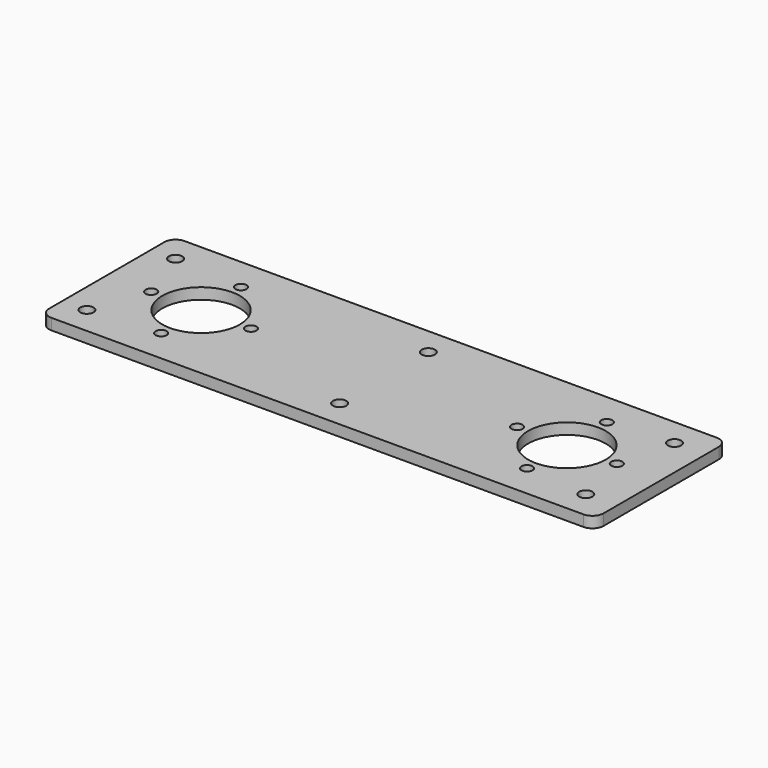
from build123d import *

# Parameters (mm, degrees)
F0_R     = 6
F0_R_2   = 35
F1_DEPTH = 10
F2_R     = 5
F3_DEPTH = 25


with BuildPart() as f1:
    # F0 (on Top) → F1 (new body)
    with BuildSketch(Plane.XY):
        with BuildLine():
            ThreePointArc((0, 10), (2.928932, 2.928932), (10, 0))
            Line((10, 0), (65, 0))
            Line((65, 0), (105, 0))
            Line((105, 0), (230, 0))
            Line((230, 0), (270, 0))
            Line((270, 0), (395, 0))
            Line((395, 0), (435, 0))
            Line((435, 0), (490, 0))
            ThreePointArc((490, 0), (497.071068, 2.928932), (500, 10))
            Line((500, 10), (500, 140))
            ThreePointArc((500, 140), (497.071068, 147.071068), (490, 150))
            Line((490, 150), (435, 150))
            Line((435, 150), (395, 150))
            Line((395, 150), (270, 150))
            Line((270, 150), (230, 150))
            Line((230, 150), (105, 150))
            Line((105, 150), (65, 150))
            Line((65, 150), (10, 150))
            ThreePointArc((10, 150), (2.928932, 147.071068), (0, 140))
            Line((0, 140), (0, 10))
        make_face()
        with Locations((22, 25)):
            Circle(F0_R, mode=Mode.SUBTRACT)
        with Locations((250, 25)):
            Circle(F0_R, mode=Mode.SUBTRACT)
        with Locations((472, 25)):
            Circle(F0_R, mode=Mode.SUBTRACT)
        with Locations((85, 75)):
            Circle(F0_R_2, mode=Mode.SUBTRACT)
        with Locations((22, 125)):
            Circle(F0_R, mode=Mode.SUBTRACT)
        with Locations((415, 75)):
            Circle(F0_R_2, mode=Mode.SUBTRACT)
        with Locations((250, 125)):
            Circle(F0_R, mode=Mode.SUBTRACT)
        with Locations((472, 125)):
            Circle(F0_R, mode=Mode.SUBTRACT)
    extrude(amount=F1_DEPTH)

    # F2 (on face) → F3 (cut)
    with BuildSketch(Plane.XY.offset(10)):
        with Locations((85, 120)):
            Circle(F2_R)
        with Locations((415, 120)):
            Circle(F2_R)
        with Locations((40, 75)):
            Circle(F2_R)
        with Locations((85, 30)):
            Circle(F2_R)
        with Locations((130, 75)):
            Circle(F2_R)
        with Locations((370, 75)):
            Circle(F2_R)
        with Locations((415, 30)):
            Circle(F2_R)
        with Locations((460, 75)):
            Circle(F2_R)
    extrude(amount=-F3_DEPTH, mode=Mode.SUBTRACT)


solid = f1.part
